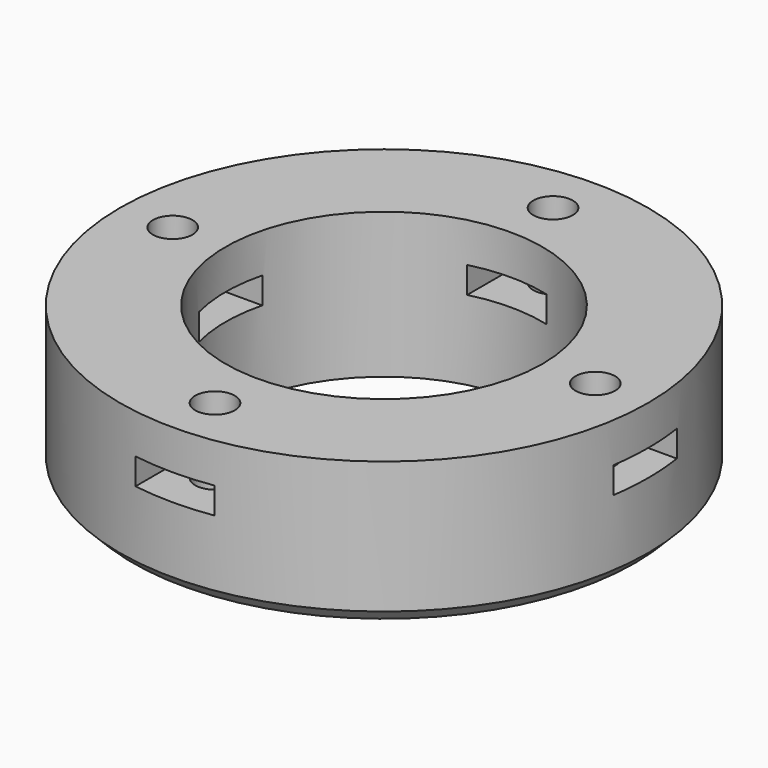
from build123d import *

# Parameters (mm, degrees)
BOX106_W                    = 10
BOX106_H                    = 6
BOX106_DEPTH                = 2
BOX105_W                    = 10
BOX105_H                    = 6
BOX105_DEPTH                = 2
BOX107_W                    = 10
BOX107_H                    = 6
BOX107_DEPTH                = 2
BOX104_W                    = 10
BOX104_H                    = 6
BOX104_DEPTH                = 2
CYLINDER279_R               = 1.5
CYLINDER279_DEPTH           = 16
CYLINDER279_PLACEMENT_ANGLE = 67.5
CYLINDER277_R               = 1.5
CYLINDER277_DEPTH           = 16
CYLINDER277_PLACEMENT_ANGLE = 22.5
CYLINDER278_R               = 1.5
CYLINDER278_DEPTH           = 16
CYLINDER278_PLACEMENT_ANGLE = 112.5
CYLINDER276_R               = 1.5
CYLINDER276_DEPTH           = 16
CYLINDER276_PLACEMENT_ANGLE = 202.5
TUBE031_R                   = 20
TUBE031_R_2                 = 12
TUBE031_DEPTH               = 11
CHAMFER004_SIZE             = 1


with BuildPart() as krychle106:
    # Box106 → Box106 (new body)
    with BuildSketch(Plane(origin=(3, 11, 6), x_dir=(0, 1, 0), z_dir=(0, 0, 1))):
        with Locations((5, 3)):
            Rectangle(BOX106_W, BOX106_H)
    extrude(amount=BOX106_DEPTH)


with BuildPart() as krychle105:
    # Box105 → Box105 (new body)
    with BuildSketch(Plane(origin=(-11, 3, 6), x_dir=(-1, 0, 0), z_dir=(0, 0, 1))):
        with Locations((5, 3)):
            Rectangle(BOX105_W, BOX105_H)
    extrude(amount=BOX105_DEPTH)


with BuildPart() as krychle107:
    # Box107 → Box107 (new body)
    with BuildSketch(Plane(origin=(-3, -11, 6), x_dir=(0, -1, 0), z_dir=(0, 0, 1))):
        with Locations((5, 3)):
            Rectangle(BOX107_W, BOX107_H)
    extrude(amount=BOX107_DEPTH)


with BuildPart() as compound232:
    # Box104 → Box104 (new body)
    with BuildSketch(Plane(origin=(11, -3, 6), x_dir=(1, 0, 0), z_dir=(0, 0, 1))):
        with Locations((5, 3)):
            Rectangle(BOX104_W, BOX104_H)
    extrude(amount=BOX104_DEPTH)

    # Compound232: union Krychle106, Krychle105, Krychle107
    add(krychle106.part)
    add(krychle105.part)
    add(krychle107.part)


with BuildPart() as compound232_1:
    # Compound232 placement: moved
    add(compound232.part.moved(Location((0, 0, -111))))


with BuildPart() as obj1:
    # Cylinder279 → Cylinder279 (new body)
    with BuildSketch(Plane.XY):
        Circle(CYLINDER279_R)
    extrude(amount=CYLINDER279_DEPTH)


with BuildPart() as obj1_1:
    # Cylinder279 placement: moved
    add(obj1.part.moved(Location((0, 16, 2))).rotate(Axis((0, 16, 2), (0, 0, -1)), CYLINDER279_PLACEMENT_ANGLE))


with BuildPart() as obj2:
    # Cylinder277 → Cylinder277 (new body)
    with BuildSketch(Plane.XY):
        Circle(CYLINDER277_R)
    extrude(amount=CYLINDER277_DEPTH)


with BuildPart() as obj2_1:
    # Cylinder277 placement: moved
    add(obj2.part.moved(Location((-16, 0, 2))).rotate(Axis((-16, 0, 2), (0, 0, 1)), CYLINDER277_PLACEMENT_ANGLE))


with BuildPart() as obj3:
    # Cylinder278 → Cylinder278 (new body)
    with BuildSketch(Plane.XY):
        Circle(CYLINDER278_R)
    extrude(amount=CYLINDER278_DEPTH)


with BuildPart() as obj3_1:
    # Cylinder278 placement: moved
    add(obj3.part.moved(Location((0, -16, 2))).rotate(Axis((0, -16, 2), (0, 0, 1)), CYLINDER278_PLACEMENT_ANGLE))


with BuildPart() as compound234:
    # Cylinder276 → Cylinder276 (new body)
    with BuildSketch(Plane.XY):
        Circle(CYLINDER276_R)
    extrude(amount=CYLINDER276_DEPTH)


with BuildPart() as compound234_1:
    # Cylinder276 placement: moved
    add(compound234.part.moved(Location((16, 0, 2))).rotate(Axis((16, 0, 2), (0, 0, 1)), CYLINDER276_PLACEMENT_ANGLE))

    # Compound234: union obj1, obj2, obj3
    add(obj1_1.part)
    add(obj2_1.part)
    add(obj3_1.part)


with BuildPart() as compound234_2:
    # Compound234 placement: moved
    add(compound234_1.part.moved(Location((0, 0, -117))))


with BuildPart() as chamfer004:
    # Tube031 → Tube031 (new body)
    with BuildSketch(Plane.XY.offset(-111)):
        Circle(TUBE031_R)
        Circle(TUBE031_R_2, mode=Mode.SUBTRACT)
    extrude(amount=TUBE031_DEPTH)

    # Cut123: cut Compound234
    add(compound234_2.part, mode=Mode.SUBTRACT)

    # Cut126: cut Compound232
    add(compound232_1.part, mode=Mode.SUBTRACT)

    # Chamfer004
    chamfer004_edges = [chamfer004.edges().sort_by_distance(p)[0] for p in [
        (-20, 0, -111),
    ]]
    chamfer(chamfer004_edges, length=CHAMFER004_SIZE)


with BuildPart() as chamfer004_1:
    # Chamfer004 placement: moved
    add(chamfer004.part.moved(Location((0, 0, -1))))


solid = chamfer004_1.part
